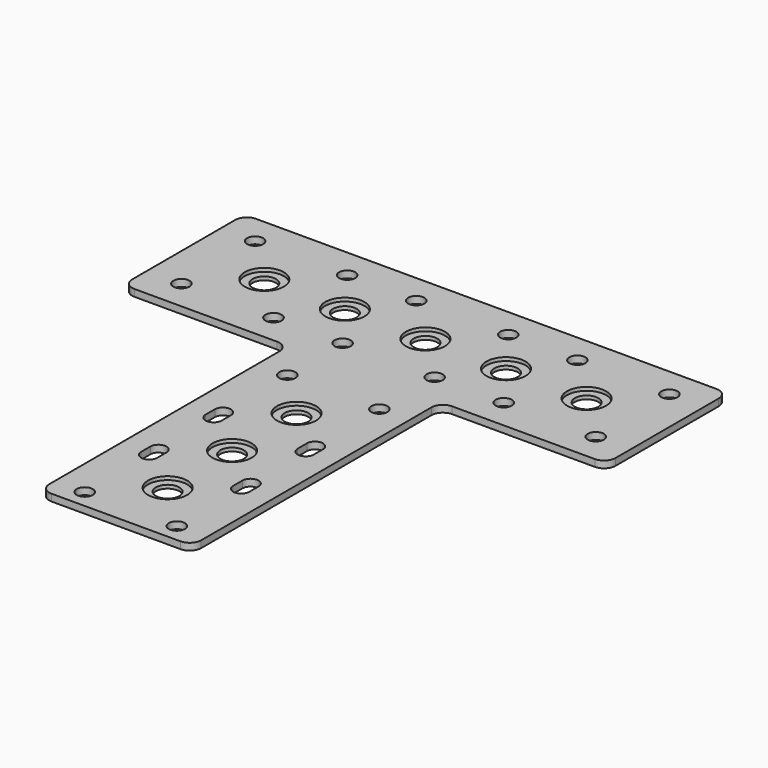
from build123d import *

# Parameters (mm, degrees)
F0_W     = 210
F0_H     = 201
F1_DEPTH = 3
F2_W     = 72
F2_H     = 135
F3_DEPTH = 3.001
F4_R     = 5
F5_R     = 3.5
F5_R_2   = 5.1
F6_DEPTH = 3.001
F7_R     = 8.5
F8_DEPTH = 1.5


with BuildPart() as f1:
    # F0 (on Top) → F1 (new body)
    with BuildSketch(Plane.XY):
        Rectangle(F0_W, F0_H)
    extrude(amount=-F1_DEPTH)

    # F2 (on face) → F3 (cut, through all)
    with BuildSketch(Plane.XY):
        with Locations((69, -33)):
            Rectangle(F2_W, F2_H)
        with Locations((-69, -33)):
            Rectangle(F2_W, F2_H)
    extrude(amount=-F3_DEPTH, mode=Mode.SUBTRACT)

    # F4
    f4_edges = [f1.edges().sort_by_distance(p)[0] for p in [
        (33, -100.5, -1.5),
        (33, 34.5, -1.5),
        (105, 34.5, -1.5),
        (105, 100.5, -1.5),
        (-33, -100.5, -1.5),
        (-33, 34.5, -1.5),
        (-105, 34.5, -1.5),
        (-105, 100.5, -1.5),
    ]]
    fillet(f4_edges, radius=F4_R)

    # F5 (on face) → F6 (cut, through all)
    with BuildSketch(Plane.XY):
        with Locations((-90, 87.5)):
            Circle(F5_R)
        with Locations((-90, 47.5)):
            Circle(F5_R)
        with Locations((-50, 87.5)):
            Circle(F5_R)
        with Locations((-50, 47.5)):
            Circle(F5_R)
        with Locations((-70, 67.5)):
            Circle(F5_R_2)
        with Locations((-20, 87.5)):
            Circle(F5_R)
        with Locations((20, 87.5)):
            Circle(F5_R)
        with Locations((50, 87.5)):
            Circle(F5_R)
        with Locations((90, 87.5)):
            Circle(F5_R)
        with Locations((-20, 47.5)):
            Circle(F5_R)
        with Locations((20, 47.5)):
            Circle(F5_R)
        with Locations((50, 47.5)):
            Circle(F5_R)
        with Locations((90, 47.5)):
            Circle(F5_R)
        with Locations((-35, 67.5)):
            Circle(F5_R_2)
        with Locations((0, 67.5)):
            Circle(F5_R_2)
        with Locations((35, 67.5)):
            Circle(F5_R_2)
        with Locations((70, 67.5)):
            Circle(F5_R_2)
        with Locations((-20, 17.5)):
            Circle(F5_R)
        with Locations((-20, -92.5)):
            Circle(F5_R)
        with BuildLine():
            ThreePointArc((-16.5, -17.5), (-20, -14), (-23.5, -17.5))
            Line((-23.5, -17.5), (-23.5, -22.5))
            ThreePointArc((-23.5, -22.5), (-20, -26), (-16.5, -22.5))
            Line((-16.5, -22.5), (-16.5, -17.5))
        make_face()
        with BuildLine():
            ThreePointArc((-16.5, -52.5), (-20, -49), (-23.5, -52.5))
            Line((-23.5, -52.5), (-23.5, -57.5))
            ThreePointArc((-23.5, -57.5), (-20, -61), (-16.5, -57.5))
            Line((-16.5, -57.5), (-16.5, -52.5))
        make_face()
        with Locations((20, -92.5)):
            Circle(F5_R)
        with BuildLine():
            Line((16.5, -52.5), (16.5, -57.5))
            ThreePointArc((16.5, -57.5), (20, -61), (23.5, -57.5))
            Line((23.5, -57.5), (23.5, -52.5))
            ThreePointArc((23.5, -52.5), (20, -49), (16.5, -52.5))
        make_face()
        with BuildLine():
            Line((23.5, -22.5), (23.5, -17.5))
            ThreePointArc((23.5, -17.5), (20, -14), (16.5, -17.5))
            Line((16.5, -17.5), (16.5, -22.5))
            ThreePointArc((16.5, -22.5), (20, -26), (23.5, -22.5))
        make_face()
        with Locations((20, 17.5)):
            Circle(F5_R)
        with Locations((0, -2.5)):
            Circle(F5_R_2)
        with Locations((0, -37.5)):
            Circle(F5_R_2)
        with Locations((0, -72.5)):
            Circle(F5_R_2)
    extrude(amount=-F6_DEPTH, mode=Mode.SUBTRACT)

    # F7 (on face) → F8 (cut)
    with BuildSketch(Plane.XY):
        with Locations((-70, 67.5)):
            Circle(F7_R)
        with Locations((-35, 67.5)):
            Circle(F7_R)
        with Locations((0, 67.5)):
            Circle(F7_R)
        with Locations((35, 67.5)):
            Circle(F7_R)
        with Locations((70, 67.5)):
            Circle(F7_R)
        with Locations((0, -72.5)):
            Circle(F7_R)
        with Locations((0, -37.5)):
            Circle(F7_R)
        with Locations((0, -2.5)):
            Circle(F7_R)
    extrude(amount=-F8_DEPTH, mode=Mode.SUBTRACT)


solid = f1.part
